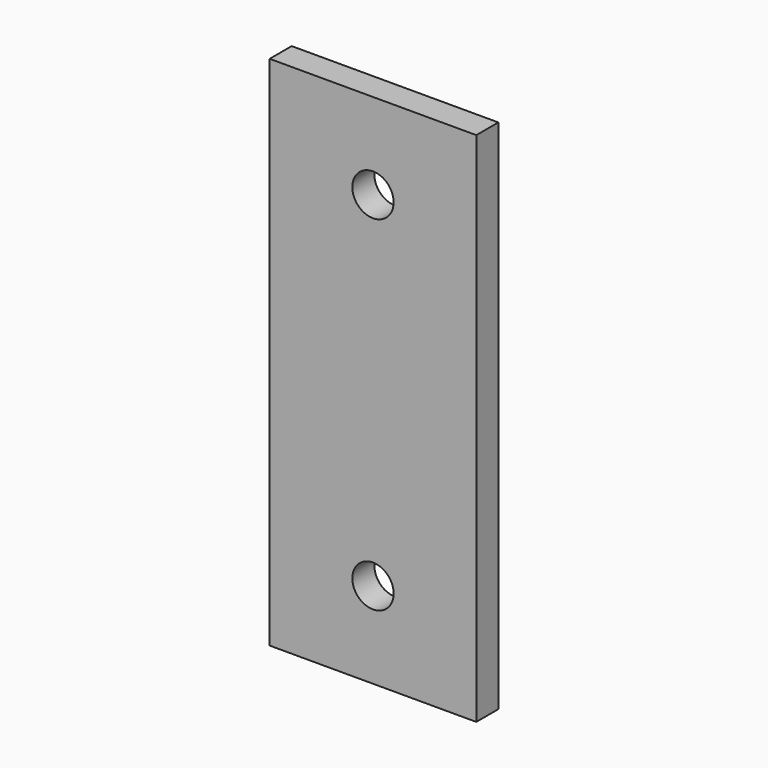
from build123d import *

# Parameters (mm, degrees)
F0_W     = 60
F0_H     = 150
F0_R     = 6
F1_DEPTH = 4


with BuildPart() as f1:
    # F0 (on Front) → F1 (new body, symmetric)
    with BuildSketch(Plane.XZ):
        Rectangle(F0_W, F0_H)
        with Locations((0, -50)):
            Circle(F0_R, mode=Mode.SUBTRACT)
        with Locations((0, 50)):
            Circle(F0_R, mode=Mode.SUBTRACT)
    extrude(amount=F1_DEPTH, both=True)


solid = f1.part
